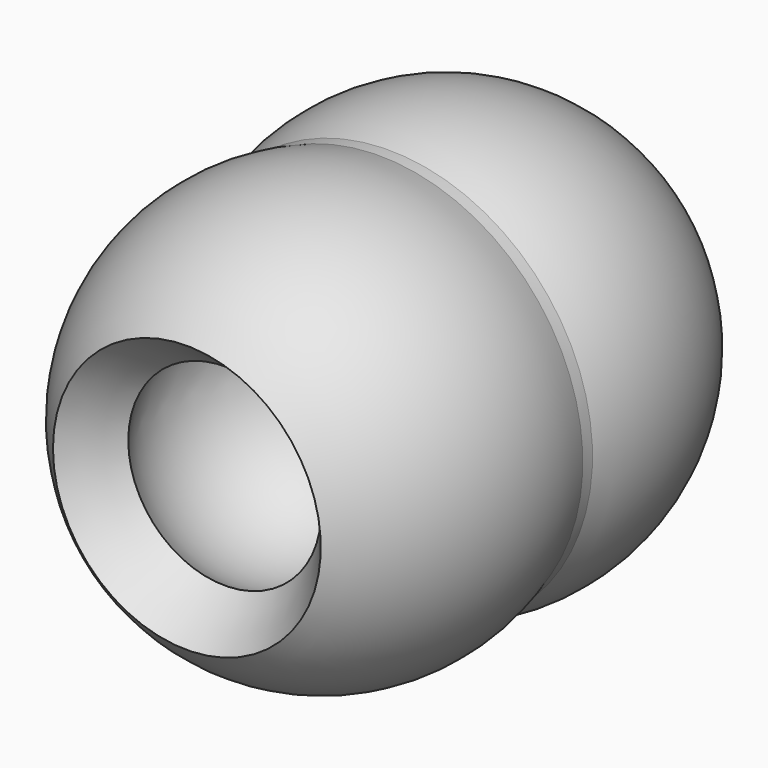
from build123d import *


with BuildPart() as f1:
    # F0 (on Top) → F1 (revolve)
    with BuildSketch(Plane.XY):
        with BuildLine():
            ThreePointArc((0, -13.5107505449), (-11.3620086767, -6.4847930924), (-10.1525229381, 6.8192086943))
            ThreePointArc((-10.1525229381, 6.8192086943), (-15.9881985309, -2.5605712732), (-14.5291043663, -13.5107505449))
            Line((-14.5291043663, -13.5107505449), (0, -13.5107505449))
        make_face()
        with BuildLine():
            ThreePointArc((-14.5291043663, -13.5107505449), (-15.9881985309, -2.5605712732), (-10.1525229381, 6.8192086943))
            Line((-10.1525229381, 6.8192086943), (-14.0944705725, 11.7975165241))
            ThreePointArc((-14.0944705725, 11.7975165241), (-21.8076146048, 0.3158808225), (-21.4270698922, -13.5107505449))
            Line((-21.4270698922, -13.5107505449), (-14.5291043663, -13.5107505449))
        make_face()
        Polygon((0, -14.7807505449), (0, -13.5107505449), (-14.5291043663, -13.5107505449), (-21.4270698922, -13.5107505449), (-21.4270698922, -14.7807505449), (-14.5291043663, -14.7807505449), align=None)
        with BuildLine():
            ThreePointArc((-10.1525229381, -35.110709784), (-11.3620086767, -21.8067079973), (0, -14.7807505449))
            Line((0, -14.7807505449), (-14.5291043663, -14.7807505449))
            ThreePointArc((-14.5291043663, -14.7807505449), (-15.9881985309, -25.7309298165), (-10.1525229381, -35.110709784))
        make_face()
        with BuildLine():
            ThreePointArc((-10.1525229381, -35.110709784), (-15.9881985309, -25.7309298165), (-14.5291043663, -14.7807505449))
            Line((-14.5291043663, -14.7807505449), (-21.4270698922, -14.7807505449))
            ThreePointArc((-21.4270698922, -14.7807505449), (-21.8076146048, -28.6073819122), (-14.0944705725, -40.0890176138))
            Line((-14.0944705725, -40.0890176138), (-10.1525229381, -35.110709784))
        make_face()
    revolve(axis=Axis((0, -14.1457505449, 0), (0, -1, 0)))


solid = f1.part
